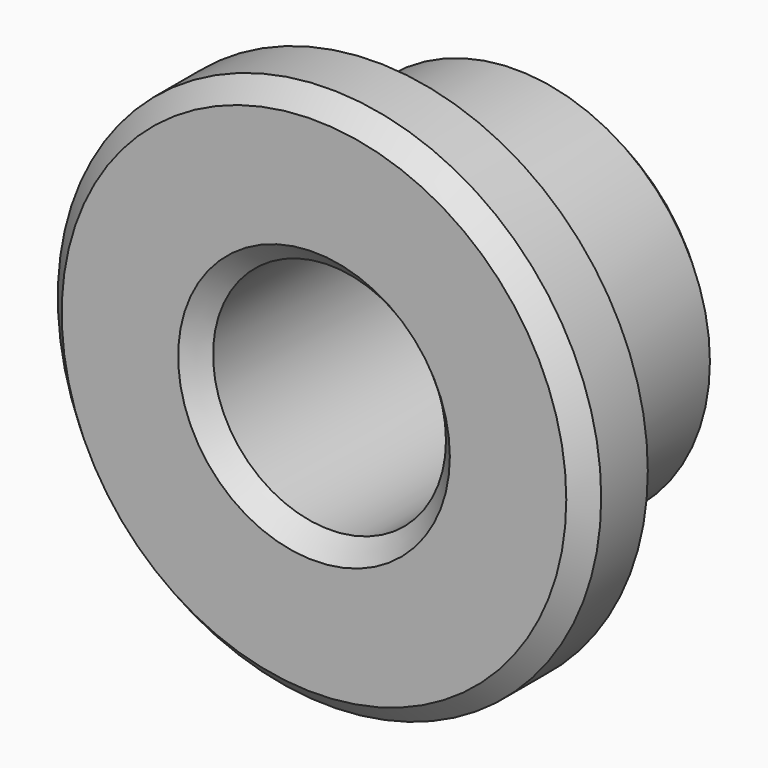
from build123d import *

# Parameters (mm, degrees)
F0_R     = 5
F0_R_2   = 3
F1_DEPTH = 5
F2_R     = 6.9999998716
F2_R_2   = 5
F2_R_3   = 3
F3_DEPTH = 2
F4_SIZE  = 0.5
F5_SIZE  = 0.5
F6_SIZE  = 0.5


with BuildPart() as f1:
    # F0 (on Front) → F1 (new body)
    with BuildSketch(Plane.XZ):
        with Locations((1.2148135622, 0)):
            Circle(F0_R)
        with Locations((1.2148135622, 0)):
            Circle(F0_R_2, mode=Mode.SUBTRACT)
    extrude(amount=F1_DEPTH)

    # F2 (on face) → F3 (join)
    with BuildSketch(Plane.XZ.offset(5)):
        with Locations((1.2148135622, 0)):
            Circle(F2_R)
        with Locations((1.2148135622, 0)):
            Circle(F2_R_2, mode=Mode.SUBTRACT)
        with Locations((1.2148135622, 0)):
            Circle(F2_R_2)
        with Locations((1.2148135622, 0)):
            Circle(F2_R_3, mode=Mode.SUBTRACT)
    extrude(amount=F3_DEPTH)

    # F4
    f4_edges = [f1.edges().sort_by_distance(p)[0] for p in [
        (-1.785186, -7, 0),
    ]]
    chamfer(f4_edges, length=F4_SIZE)

    # F5
    f5_edges = [f1.edges().sort_by_distance(p)[0] for p in [
        (-5.785186, -7, 0),
    ]]
    chamfer(f5_edges, length=F5_SIZE)

    # F6
    f6_edges = [f1.edges().sort_by_distance(p)[0] for p in [
        (-3.785186, 0, 0),
    ]]
    chamfer(f6_edges, length=F6_SIZE)


solid = f1.part
